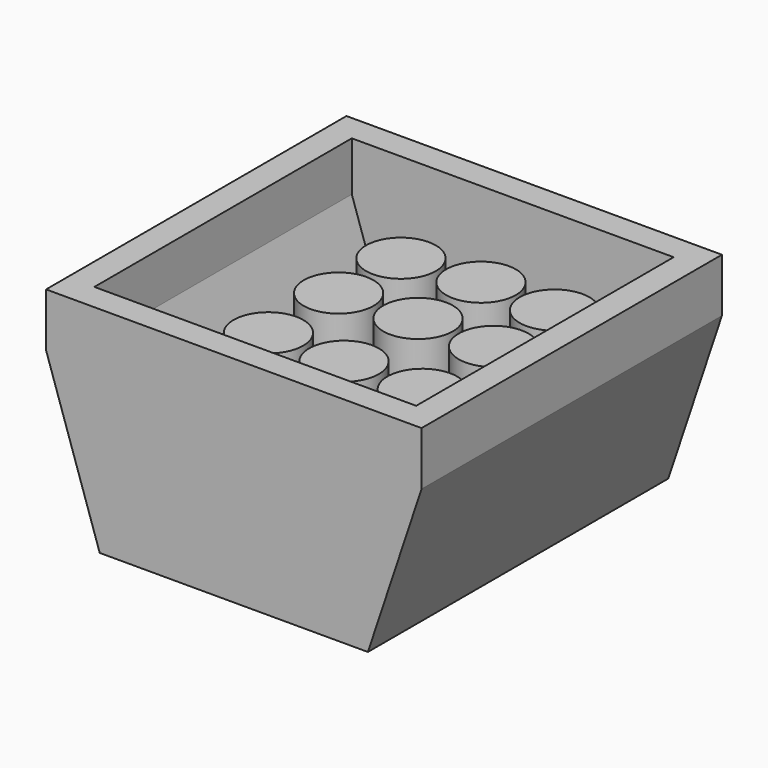
from build123d import *

# Parameters (mm, degrees)
F0_W       = 355.6
F0_H       = 355.6
F1_DEPTH   = 203.2
F2_SIZE2   = 50.8
F2_SIZE    = 152.4
F2_2_SIZE2 = 50.8
F2_2_SIZE  = 152.4
F3_T       = -25.4
F4_R       = 33.02
F5_DEPTH   = 122.682
F6_R       = 33.02
F7_DEPTH   = 122.682
F8_DEPTH   = 122.682


with BuildPart() as f1:
    # F0 (on Top) → F1 (new body)
    with BuildSketch(Plane.XY):
        Rectangle(F0_W, F0_H)
    extrude(amount=F1_DEPTH)

    # F2
    f2_edges = [f1.edges().sort_by_distance(p)[0] for p in [
        (177.8, 0, 0),
    ]]
    f2_side = f1.faces().sort_by_distance((177.8, 0, 101.6))[0]
    chamfer(f2_edges, length=F2_SIZE, length2=F2_SIZE2, reference=f2_side)

    # F2#2
    f2_2_edges = [f1.edges().sort_by_distance(p)[0] for p in [
        (-177.8, 0, 0),
    ]]
    f2_2_side = f1.faces().sort_by_distance((-177.8, 0, 101.6))[0]
    chamfer(f2_2_edges, length=F2_2_SIZE, length2=F2_2_SIZE2, reference=f2_2_side)

    # F3
    f3_openings = [f1.faces().sort_by_distance(p)[0] for p in [
        (0, 0, 203.2),
    ]]
    offset(amount=F3_T, openings=f3_openings)

    # F4 (on face) → F5 (join)
    with BuildSketch(Plane.XY.offset(25.4)):
        with Locations((-70.2053735407, 107.8277250077)):
            Circle(F4_R)
    extrude(amount=F5_DEPTH)

    # F6 (on face) → F7 (join)
    with BuildSketch(Plane.XY.offset(25.4)):
        with Locations((0, 114.7967680478)):
            Circle(F6_R)
    extrude(amount=F7_DEPTH)

    # F6 (on face) → F8 (join)
    with BuildSketch(Plane.XY.offset(25.4)):
        with Locations((0, 114.7967680478)):
            Circle(F6_R)
        with Locations((70.3868092574, 113.9291237052)):
            Circle(F6_R)
        with Locations((71.5376321746, 40.2986026845)):
            Circle(F6_R)
        with Locations((-0.0415008555, 40.3708189575)):
            Circle(F6_R)
        with Locations((-71.3555991826, 35.4531153915)):
            Circle(F6_R)
        with Locations((-72.1185611385, -46.7119736662)):
            Circle(F6_R)
        with Locations((0, -47.3305765696)):
            Circle(F6_R)
        with Locations((73.2853530286, -46.3240017531)):
            Circle(F6_R)
        with Locations((72.011954595, -115.5125677872)):
            Circle(F6_R)
        with Locations((0, -116.9024210642)):
            Circle(F6_R)
        with Locations((-73.2791824184, -116.1962359046)):
            Circle(F6_R)
    extrude(amount=F8_DEPTH)


solid = f1.part
